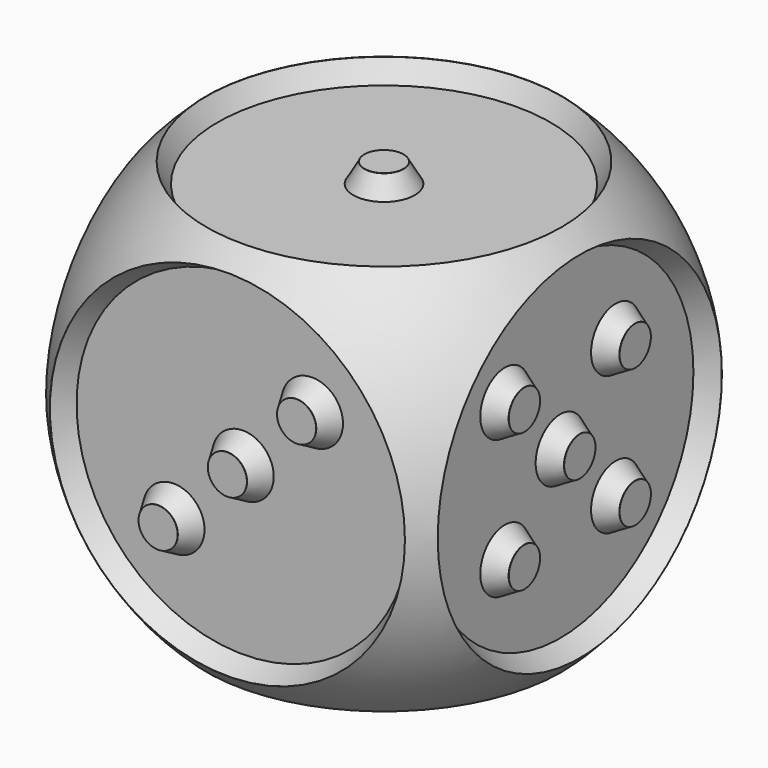
from build123d import *

# Parameters (mm, degrees)
SKETCH008_R                               = 9.069179
SKETCH008_R_2                             = 1
EXTRUDE009_DEPTH                          = 1
SKETCH007_R                               = 9.069179
SKETCH007_R_2                             = 1
EXTRUDE008_DEPTH                          = 1
SKETCH006_AS_DRAWN_R                      = 9.069179
SKETCH006_AS_DRAWN_R_2                    = 1
EXTRUDE007_DEPTH                          = 1
EXTRUDE007_ONTO_SKETCH006_ROLL_ANGLE      = 90
EXTRUDE007_ONTO_SKETCH006_PLACEMENT_ANGLE = 180
SKETCH005_R                               = 9.069179
SKETCH005_R_2                             = 1
EXTRUDE006_DEPTH                          = 1
SKETCH004_AS_DRAWN_R                      = 9.069179
SKETCH004_AS_DRAWN_R_2                    = 1
EXTRUDE005_DEPTH                          = 1
EXTRUDE005_ONTO_SKETCH004_ROLL_ANGLE      = 90
SKETCH003_R                               = 1
EXTRUDE004_DEPTH                          = 1
SKETCH002_R                               = 9.069179
EXTRUDE_DEPTH                             = 1
SKETCH001_W                               = 20
SKETCH001_H                               = 20
EXTRUDE003_DEPTH                          = 20
CHAMFER_SIZE2                             = 0.57
CHAMFER_SIZE                              = 0.99
CHAMFER001_SIZE2                          = 0.57
CHAMFER001_SIZE                           = 0.99
CHAMFER002_SIZE2                          = 0.57
CHAMFER002_SIZE                           = 0.99
CHAMFER003_SIZE2                          = 0.99
CHAMFER003_SIZE                           = 0.57
CHAMFER004_SIZE2                          = 0.57
CHAMFER004_SIZE                           = 0.99
CHAMFER005_SIZE2                          = 0.99
CHAMFER005_SIZE                           = 0.57
CHAMFER006_SIZE2                          = 0.57
CHAMFER006_SIZE                           = 0.99
CHAMFER007_SIZE2                          = 0.99
CHAMFER007_SIZE                           = 0.57
CHAMFER008_SIZE2                          = 0.57
CHAMFER008_SIZE                           = 0.99
CHAMFER009_SIZE2                          = 0.99
CHAMFER009_SIZE                           = 0.57
CHAMFER010_SIZE2                          = 0.57
CHAMFER010_SIZE                           = 0.99
CHAMFER011_SIZE2                          = 0.99
CHAMFER011_SIZE                           = 0.57


with BuildPart() as extrude009:
    # Sketch008 → Extrude009 (new body)
    with BuildSketch(Plane(origin=(0, 0, 0), x_dir=(1, 0, 0), z_dir=(0, 0, -1))):
        Circle(SKETCH008_R)
        with Locations((-3.5, 5)):
            Circle(SKETCH008_R_2, mode=Mode.SUBTRACT)
        with Locations((-3.5, -5)):
            Circle(SKETCH008_R_2, mode=Mode.SUBTRACT)
        with Locations((3.5, -5)):
            Circle(SKETCH008_R_2, mode=Mode.SUBTRACT)
        with Locations((3.5, 5)):
            Circle(SKETCH008_R_2, mode=Mode.SUBTRACT)
        with Locations((-3.5, 0)):
            Circle(SKETCH008_R_2, mode=Mode.SUBTRACT)
        with Locations((3.5, 0)):
            Circle(SKETCH008_R_2, mode=Mode.SUBTRACT)
    extrude(amount=-EXTRUDE009_DEPTH)


with BuildPart() as extrude008:
    # Sketch007 → Extrude008 (new body)
    with BuildSketch(Plane(origin=(-10, 0, 0), x_dir=(0, -1, 0), z_dir=(-1, 0, 0))):
        with Locations((0, 10)):
            Circle(SKETCH007_R)
        with Locations((3.535534, 13.535534)):
            Circle(SKETCH007_R_2, mode=Mode.SUBTRACT)
        with Locations((-3.535534, 6.464466)):
            Circle(SKETCH007_R_2, mode=Mode.SUBTRACT)
    extrude(amount=-EXTRUDE008_DEPTH)


with BuildPart() as extrude007:
    # Sketch006 as drawn → Extrude007 (new)
    with BuildSketch(Plane.XY):
        with Locations((0, 10)):
            Circle(SKETCH006_AS_DRAWN_R)
        with Locations((-3.535534, 13.535534)):
            Circle(SKETCH006_AS_DRAWN_R_2, mode=Mode.SUBTRACT)
        with Locations((3.535534, 13.535534)):
            Circle(SKETCH006_AS_DRAWN_R_2, mode=Mode.SUBTRACT)
        with Locations((3.535534, 6.464466)):
            Circle(SKETCH006_AS_DRAWN_R_2, mode=Mode.SUBTRACT)
        with Locations((-3.535534, 6.464466)):
            Circle(SKETCH006_AS_DRAWN_R_2, mode=Mode.SUBTRACT)
    extrude(amount=-EXTRUDE007_DEPTH)


with BuildPart() as extrude007_1:
    # Extrude007 onto Sketch006 roll: moved
    add(extrude007.part.rotate(Axis((0, 0, 0), (1, 0, 0)), EXTRUDE007_ONTO_SKETCH006_ROLL_ANGLE))


with BuildPart() as extrude007_2:
    # Extrude007 onto Sketch006 placement: moved
    add(extrude007_1.part.moved(Location((0, 10, 0))).rotate(Axis((0, 10, 0), (0, 0, 1)), EXTRUDE007_ONTO_SKETCH006_PLACEMENT_ANGLE))


with BuildPart() as extrude006:
    # Sketch005 → Extrude006 (new body)
    with BuildSketch(Plane.YZ.offset(10)):
        with Locations((0, 10)):
            Circle(SKETCH005_R)
        with Locations((0, 10)):
            Circle(SKETCH005_R_2, mode=Mode.SUBTRACT)
        with Locations((-3.535534, 6.464466)):
            Circle(SKETCH005_R_2, mode=Mode.SUBTRACT)
        with Locations((-3.535534, 13.535534)):
            Circle(SKETCH005_R_2, mode=Mode.SUBTRACT)
        with Locations((3.535534, 13.535534)):
            Circle(SKETCH005_R_2, mode=Mode.SUBTRACT)
        with Locations((3.535534, 6.464466)):
            Circle(SKETCH005_R_2, mode=Mode.SUBTRACT)
    extrude(amount=-EXTRUDE006_DEPTH)


with BuildPart() as extrude005:
    # Sketch004 as drawn → Extrude005 (new)
    with BuildSketch(Plane.XY):
        with Locations((0, 10)):
            Circle(SKETCH004_AS_DRAWN_R)
        with Locations((0, 10)):
            Circle(SKETCH004_AS_DRAWN_R_2, mode=Mode.SUBTRACT)
        with Locations((3.535534, 13.535534)):
            Circle(SKETCH004_AS_DRAWN_R_2, mode=Mode.SUBTRACT)
        with Locations((-3.535534, 6.464466)):
            Circle(SKETCH004_AS_DRAWN_R_2, mode=Mode.SUBTRACT)
    extrude(amount=-EXTRUDE005_DEPTH)


with BuildPart() as extrude005_1:
    # Extrude005 onto Sketch004 roll: moved
    add(extrude005.part.rotate(Axis((0, 0, 0), (1, 0, 0)), EXTRUDE005_ONTO_SKETCH004_ROLL_ANGLE))


with BuildPart() as extrude005_2:
    # Extrude005 onto Sketch004 placement: moved
    add(extrude005_1.part.moved(Location((0, -10, 0))))


with BuildPart() as extrude004:
    # Sketch003 → Extrude004 (new body)
    with BuildSketch(Plane.XY.offset(19)):
        Circle(SKETCH003_R)
    extrude(amount=EXTRUDE004_DEPTH)


with BuildPart() as extrude_body:
    # Sketch002 → Extrude (new body)
    with BuildSketch(Plane.XY.offset(20)):
        Circle(SKETCH002_R)
    extrude(amount=-EXTRUDE_DEPTH)


with BuildPart() as extrude003:
    # Sketch001 → Extrude003 (new body)
    with BuildSketch(Plane.XY):
        Rectangle(SKETCH001_W, SKETCH001_H)
    extrude(amount=EXTRUDE003_DEPTH)


with BuildPart() as chamfer011:
    # Sketch → Revolve (revolve)
    with BuildSketch(Plane.XY):
        with BuildLine():
            ThreePointArc((0, -13.5), (13.5, 0), (0, 13.5))
            Line((0, 13.5), (0, -13.5))
        make_face()
    revolve(axis=Axis((0, 0, 0), (0, 1, 0)))


with BuildPart() as chamfer011_1:
    # Revolve placement: moved
    add(chamfer011.part.moved(Location((0, 0, 10))))

    # Common: intersect Extrude003
    add(extrude003.part, mode=Mode.INTERSECT)

    # Cut: cut Extrude body
    add(extrude_body.part, mode=Mode.SUBTRACT)

    # Chamfer
    chamfer_edges = [chamfer011_1.edges().sort_by_distance(p)[0] for p in [
        (-9.069179, 0, 19),
    ]]
    chamfer_side = chamfer011_1.faces().sort_by_distance((-9.069179, 0, 19.5))[0]
    chamfer(chamfer_edges, length=CHAMFER_SIZE, length2=CHAMFER_SIZE2, reference=chamfer_side)

    # Fusion: union Extrude004
    add(extrude004.part)

    # Chamfer001
    chamfer001_edges = [chamfer011_1.edges().sort_by_distance(p)[0] for p in [
        (-1, 0, 19),
    ]]
    chamfer001_side = chamfer011_1.faces().sort_by_distance((-1, 0, 19.5))[0]
    chamfer(chamfer001_edges, length=CHAMFER001_SIZE, length2=CHAMFER001_SIZE2, reference=chamfer001_side)

    # Cut001: cut Extrude005
    add(extrude005_2.part, mode=Mode.SUBTRACT)

    # Chamfer002
    chamfer002_edges = [chamfer011_1.edges().sort_by_distance(p)[0] for p in [
        (-9.069179, -9, 10),
    ]]
    chamfer002_side = chamfer011_1.faces().sort_by_distance((-9.069179, -9.5, 10))[0]
    chamfer(chamfer002_edges, length=CHAMFER002_SIZE, length2=CHAMFER002_SIZE2, reference=chamfer002_side)

    # Chamfer003
    chamfer003_edges = [chamfer011_1.edges().sort_by_distance(p)[0] for p in [
        (2.535534, -9, 13.535534),
        (-1, -9, 10),
        (-4.535534, -9, 6.464466),
    ]]
    chamfer003_side = chamfer011_1.faces().sort_by_distance((-8.258786, -9, 10))[0]
    chamfer(chamfer003_edges, length=CHAMFER003_SIZE, length2=CHAMFER003_SIZE2, reference=chamfer003_side)

    # Cut002: cut Extrude006
    add(extrude006.part, mode=Mode.SUBTRACT)

    # Chamfer004
    chamfer004_edges = [chamfer011_1.edges().sort_by_distance(p)[0] for p in [
        (9, -9.069179, 10),
    ]]
    chamfer004_side = chamfer011_1.faces().sort_by_distance((9.5, -9.069179, 10))[0]
    chamfer(chamfer004_edges, length=CHAMFER004_SIZE, length2=CHAMFER004_SIZE2, reference=chamfer004_side)

    # Chamfer005
    chamfer005_edges = [chamfer011_1.edges().sort_by_distance(p)[0] for p in [
        (9, 2.535534, 13.535534),
        (9, -4.535534, 13.535534),
        (9, -1, 10),
        (9, 2.535534, 6.464466),
        (9, -4.535534, 6.464466),
    ]]
    chamfer005_side = chamfer011_1.faces().sort_by_distance((9, -8.258786, 10))[0]
    chamfer(chamfer005_edges, length=CHAMFER005_SIZE, length2=CHAMFER005_SIZE2, reference=chamfer005_side)

    # Cut003: cut Extrude007
    add(extrude007_2.part, mode=Mode.SUBTRACT)

    # Chamfer006
    chamfer006_edges = [chamfer011_1.edges().sort_by_distance(p)[0] for p in [
        (9.069179, 9, 10),
    ]]
    chamfer006_side = chamfer011_1.faces().sort_by_distance((9.069179, 9.5, 10))[0]
    chamfer(chamfer006_edges, length=CHAMFER006_SIZE, length2=CHAMFER006_SIZE2, reference=chamfer006_side)

    # Chamfer007
    chamfer007_edges = [chamfer011_1.edges().sort_by_distance(p)[0] for p in [
        (-2.535534, 9, 13.535534),
        (4.535534, 9, 13.535534),
        (4.535534, 9, 6.464466),
        (-2.535534, 9, 6.464466),
    ]]
    chamfer007_side = chamfer011_1.faces().sort_by_distance((0, 9, 10))[0]
    chamfer(chamfer007_edges, length=CHAMFER007_SIZE, length2=CHAMFER007_SIZE2, reference=chamfer007_side)

    # Cut004: cut Extrude008
    add(extrude008.part, mode=Mode.SUBTRACT)

    # Chamfer008
    chamfer008_edges = [chamfer011_1.edges().sort_by_distance(p)[0] for p in [
        (-9, 9.069179, 10),
    ]]
    chamfer008_side = chamfer011_1.faces().sort_by_distance((-9.5, 9.069179, 10))[0]
    chamfer(chamfer008_edges, length=CHAMFER008_SIZE, length2=CHAMFER008_SIZE2, reference=chamfer008_side)

    # Chamfer009
    chamfer009_edges = [chamfer011_1.edges().sort_by_distance(p)[0] for p in [
        (-9, -2.535534, 13.535534),
        (-9, 4.535534, 6.464466),
    ]]
    chamfer009_side = chamfer011_1.faces().sort_by_distance((-9, 0, 10))[0]
    chamfer(chamfer009_edges, length=CHAMFER009_SIZE, length2=CHAMFER009_SIZE2, reference=chamfer009_side)

    # Cut005: cut Extrude009
    add(extrude009.part, mode=Mode.SUBTRACT)

    # Chamfer010
    chamfer010_edges = [chamfer011_1.edges().sort_by_distance(p)[0] for p in [
        (-9.069179, 0, 1),
    ]]
    chamfer010_side = chamfer011_1.faces().sort_by_distance((-9.069179, 0, 0.5))[0]
    chamfer(chamfer010_edges, length=CHAMFER010_SIZE, length2=CHAMFER010_SIZE2, reference=chamfer010_side)

    # Chamfer011
    chamfer011_edges = [chamfer011_1.edges().sort_by_distance(p)[0] for p in [
        (2.5, -5, 1),
        (2.5, 0, 1),
        (-4.5, 0, 1),
        (2.5, 5, 1),
        (-4.5, 5, 1),
        (-4.5, -5, 1),
    ]]
    chamfer011_side = chamfer011_1.faces().sort_by_distance((0, 0, 1))[0]
    chamfer(chamfer011_edges, length=CHAMFER011_SIZE, length2=CHAMFER011_SIZE2, reference=chamfer011_side)


solid = chamfer011_1.part
